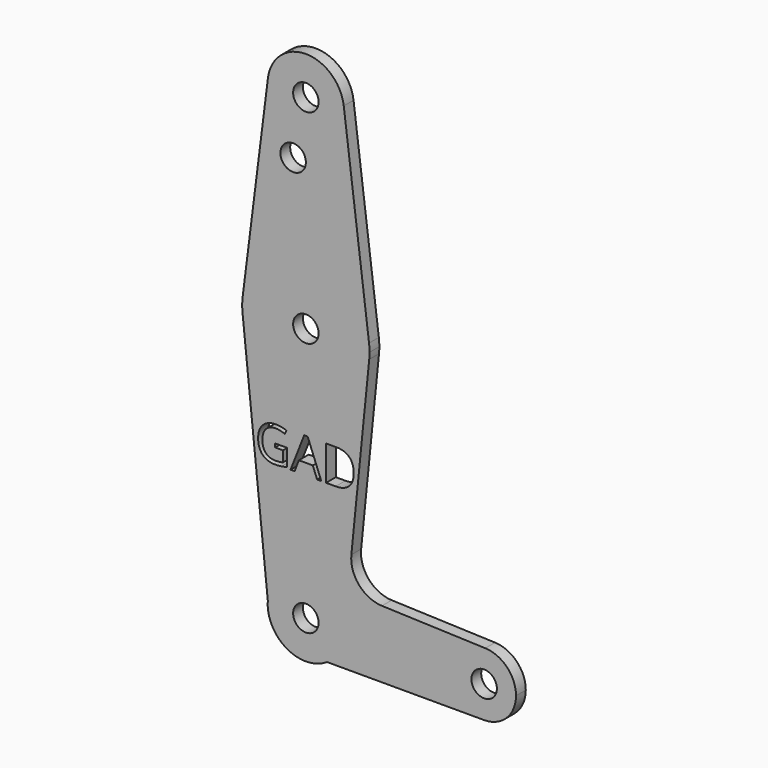
from build123d import *

# Parameters (mm, degrees)
F0_R     = 3.175
F1_DEPTH = 3.048


with BuildPart() as f1:
    # F0 (on Front) → F1 (new body)
    with BuildSketch(Plane.XZ):
        with BuildLine():
            ThreePointArc((5.2651418547, -7.9375), (8.392737967, -4.5041730003), (9.525, 0))
            ThreePointArc((9.525, 0), (0.3870261205, 9.5171338008), (-9.4935481957, 0.7734129917))
            ThreePointArc((-9.4935481957, 0.7734129917), (-4.8414725377, -8.2027902976), (5.2651418547, -7.9375))
        make_face()
        Circle(F0_R, mode=Mode.SUBTRACT)
        with BuildLine():
            ThreePointArc((-9.4935481957, 0.7734129917), (0.3870261205, 9.5171338008), (9.525, 0))
            ThreePointArc((9.525, 0), (8.392737967, -4.5041730003), (5.2651418547, -7.9375))
            Line((5.2651418547, -7.9375), (44.45, -7.9375))
            ThreePointArc((44.45, -7.9375), (36.5137660501, 0.1417636831), (44.7334821429, 7.9324362036))
            Line((44.7334821429, 7.9324362036), (18.9676000005, 8.8532337108))
            ThreePointArc((18.9676000005, 8.8532337108), (13.2611998974, 11.5713591498), (11.3411865923, 17.5933818124))
            Line((11.3411865923, 17.5933818124), (15.7954255641, 61.9125))
            ThreePointArc((15.7954255641, 61.9125), (0.0202020085, 47.6250128542), (-15.7913340065, 61.8723036849))
            Line((-15.7913340065, 61.8723036849), (-9.4935481957, 0.7734129917))
        make_face()
        with BuildLine():
            Line((-7.6488675581, 34.9554086146), (-7.6488675581, 35.8545547227))
            Line((-7.6488675581, 35.8545547227), (-4.7091330197, 35.8545547227))
            Line((-4.7091330197, 35.8545547227), (-4.7091330197, 31.6484438763))
            add(Edge.make_bspline(
                [(-4.7091330197, 31.6484438763), (-5.3962699401, 31.4288629321), (-6.1061221307, 31.3162330512)],
                knots=[0, 0, 0, 1, 1, 1], degree=2))
            add(Edge.make_bspline(
                [(-6.1061221307, 31.3162330512), (-6.8159743212, 31.2036031703), (-7.7510862735, 31.2036031703)],
                knots=[0, 0, 0, 1, 1, 1], degree=2))
            add(Edge.make_bspline(
                [(-7.7510862735, 31.2036031703), (-9.7140641978, 31.2036031703), (-10.8081830408, 32.3724931107)],
                knots=[0, 0, 0, 1, 1, 1], degree=2))
            add(Edge.make_bspline(
                [(-10.8081830408, 32.3724931107), (-11.9023018838, 33.5413830511), (-11.9023018838, 35.6463314134)],
                knots=[0, 0, 0, 1, 1, 1], degree=2))
            add(Edge.make_bspline(
                [(-11.9023018838, 35.6463314134), (-11.9023018838, 36.995997045), (-11.3609212798, 38.0106124427)],
                knots=[0, 0, 0, 1, 1, 1], degree=2))
            add(Edge.make_bspline(
                [(-11.3609212798, 38.0106124427), (-10.8195406758, 39.0252278404), (-9.8020858694, 39.5599831573)],
                knots=[0, 0, 0, 1, 1, 1], degree=2))
            add(Edge.make_bspline(
                [(-9.8020858694, 39.5599831573), (-8.784631063, 40.0947384741), (-7.4198219179, 40.0947384741)],
                knots=[0, 0, 0, 1, 1, 1], degree=2))
            add(Edge.make_bspline(
                [(-7.4198219179, 40.0947384741), (-6.034190442, 40.0947384741), (-4.8397458227, 39.5874307753)],
                knots=[0, 0, 0, 1, 1, 1], degree=2))
            Line((-4.8397458227, 39.5874307753), (-5.2296912927, 38.6996423023))
            add(Edge.make_bspline(
                [(-5.2296912927, 38.6996423023), (-6.4014206419, 39.1955923661), (-7.4841818499, 39.1955923661)],
                knots=[0, 0, 0, 1, 1, 1], degree=2))
            add(Edge.make_bspline(
                [(-7.4841818499, 39.1955923661), (-9.0628931216, 39.1955923661), (-9.9506815946, 38.2557480658)],
                knots=[0, 0, 0, 1, 1, 1], degree=2))
            add(Edge.make_bspline(
                [(-9.9506815946, 38.2557480658), (-10.8384700676, 37.3159037656), (-10.8384700676, 35.6463314134)],
                knots=[0, 0, 0, 1, 1, 1], degree=2))
            add(Edge.make_bspline(
                [(-10.8384700676, 35.6463314134), (-10.8384700676, 33.8953626768), (-9.9838080302, 32.9905377512)],
                knots=[0, 0, 0, 1, 1, 1], degree=2))
            add(Edge.make_bspline(
                [(-9.9838080302, 32.9905377512), (-9.1291459928, 32.0857128257), (-7.4728242148, 32.0857128257)],
                knots=[0, 0, 0, 1, 1, 1], degree=2))
            add(Edge.make_bspline(
                [(-7.4728242148, 32.0857128257), (-6.5736781068, 32.0857128257), (-5.7161766607, 32.2939361349)],
                knots=[0, 0, 0, 1, 1, 1], degree=2))
            Line((-5.7161766607, 32.2939361349), (-5.7161766607, 34.9554086146))
            Line((-5.7161766607, 34.9554086146), (-7.6488675581, 34.9554086146))
        make_face(mode=Mode.SUBTRACT)
        Polygon((3.8431661719, 31.3228583383), (2.8020496258, 31.3228583383), (1.7249672353, 34.0732989592), (-1.7410043937, 34.0732989592), (-2.8048362099, 31.3228583383), (-3.8232374859, 31.3228583383), (-0.4045893363, 40.0076632721), (0.4415544748, 40.0076632721), align=None, mode=Mode.SUBTRACT)
        with BuildLine():
            add(Edge.make_bspline(
                [(10.8177005613, 38.8539168451), (11.935481144, 37.7361362624), (11.935481144, 35.7296207371)],
                knots=[0, 0, 0, 1, 1, 1], degree=2))
            add(Edge.make_bspline(
                [(11.935481144, 35.7296207371), (11.935481144, 33.5887065305), (10.7732164907, 32.4557824344)],
                knots=[0, 0, 0, 1, 1, 1], degree=2))
            add(Edge.make_bspline(
                [(10.7732164907, 32.4557824344), (9.6109518374, 31.3228583383), (7.4283929689, 31.3228583383)],
                knots=[0, 0, 0, 1, 1, 1], degree=2))
            Line((7.4283929689, 31.3228583383), (5.0319319737, 31.3228583383))
            Line((5.0319319737, 31.3228583383), (5.0319319737, 39.9716974278))
            Line((5.0319319737, 39.9716974278), (7.6820468183, 39.9716974278))
            add(Edge.make_bspline(
                [(7.6820468183, 39.9716974278), (9.6999199786, 39.9716974278), (10.8177005613, 38.8539168451)],
                knots=[0, 0, 0, 1, 1, 1], degree=2))
        make_face(mode=Mode.SUBTRACT)
        with BuildLine():
            ThreePointArc((-15.7913340065, 65.1276963151), (-15.875, 63.5), (-15.7913340065, 61.8723036849))
            ThreePointArc((-15.7913340065, 61.8723036849), (0.0202020085, 47.6250128542), (15.7954255641, 61.9125))
            ThreePointArc((15.7954255641, 61.9125), (15.8550939106, 62.7052534459), (15.875, 63.5))
            ThreePointArc((15.875, 63.5), (15.8438415247, 64.4941381891), (15.7504884108, 65.4843739115))
            ThreePointArc((15.7504884108, 65.4843739115), (0.1782359655, 79.3739993997), (-15.7019613681, 65.8375273678))
            Line((-15.7019613681, 65.8375273678), (-15.7913340065, 65.1276963151))
        make_face()
        with Locations((0, 63.5)):
            Circle(F0_R, mode=Mode.SUBTRACT)
        with BuildLine():
            ThreePointArc((44.7334821429, 7.9324362036), (36.5137660501, 0.1417636831), (44.45, -7.9375))
            ThreePointArc((44.45, -7.9375), (50.0626600757, -5.6126600757), (52.3875, 0))
            ThreePointArc((52.3875, 0), (50.1620069047, 5.5115227815), (44.7334821429, 7.9324362036))
        make_face()
        with Locations((44.45, 0)):
            Circle(F0_R, mode=Mode.SUBTRACT)
        with BuildLine():
            ThreePointArc((-15.7019613681, 65.8375273678), (-15.7506469207, 65.4831153726), (-15.7913340065, 65.1276963151))
            Line((-15.7913340065, 65.1276963151), (-15.7019613681, 65.8375273678))
        make_face()
        with BuildLine():
            Line((-9.4503881524, 115.4898692236), (-15.7019613681, 65.8375273678))
            ThreePointArc((-15.7019613681, 65.8375273678), (0.1782359655, 79.3739993997), (15.7504884108, 65.4843739115))
            Line((15.7504884108, 65.4843739115), (9.4502929642, 115.490625))
            ThreePointArc((9.4502929642, 115.490625), (9.5063048942, 114.896483242), (9.525, 114.3))
            ThreePointArc((9.525, 114.3), (-0.5961031154, 104.793671262), (-9.4503881524, 115.4898692236))
        make_face()
        with Locations((-3.175, 100.0252)):
            Circle(F0_R, mode=Mode.SUBTRACT)
        with BuildLine():
            ThreePointArc((9.4502929642, 115.490625), (-0.0003808736, 123.8249999924), (-9.4503881524, 115.4898692236))
            ThreePointArc((-9.4503881524, 115.4898692236), (-0.5961031154, 104.793671262), (9.525, 114.3))
            ThreePointArc((9.525, 114.3), (9.5063048942, 114.896483242), (9.4502929642, 115.490625))
        make_face()
        with Locations((0, 114.3)):
            Circle(F0_R, mode=Mode.SUBTRACT)
    extrude(amount=F1_DEPTH)


solid = f1.part
